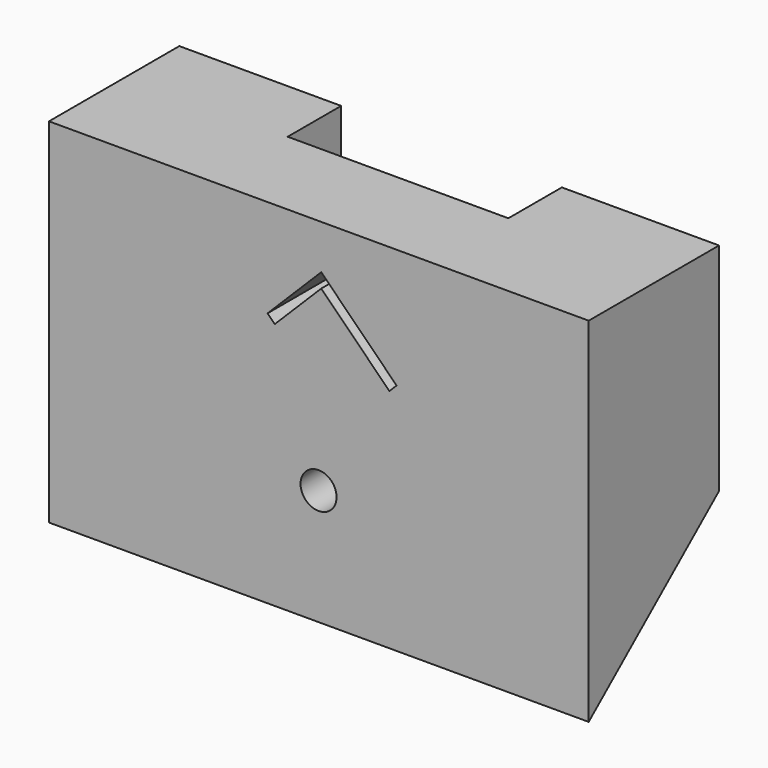
from build123d import *

# Parameters (mm, degrees)
F0_W     = 97.028
F0_H     = 29.2862
F2_DEPTH = 63.5
F1_W     = 39.6748
F1_H     = 12.0142
F3_DEPTH = 63.5
F5_DEPTH = 97.028
F6_R     = 3.2385
F7_DEPTH = 25.4
F9_DEPTH = 25.4


with BuildPart() as f2:
    # F0 (on Top) → F2 (new body)
    with BuildSketch(Plane.XY):
        with Locations((3.356052, -0.137089)):
            Rectangle(F0_W, F0_H)
    extrude(amount=F2_DEPTH)

    # F1 (on face) → F3 (cut)
    with BuildSketch(Plane.XY):
        with Locations((3.775152, 8.498911)):
            Rectangle(F1_W, F1_H)
    extrude(amount=F3_DEPTH, mode=Mode.SUBTRACT)

    # F4 (on face) → F5 (cut)
    with BuildSketch(Plane.YZ.offset(51.870052)):
        Polygon((14.506011, 0), (14.506011, 24.638), (-14.780189, 0), align=None)
    extrude(amount=-F5_DEPTH, mode=Mode.SUBTRACT)

    # F6 (on face) → F7 (cut)
    with BuildSketch(Plane.XZ.offset(14.780189)):
        with Locations((3.305252, 20.828)):
            Circle(F6_R)
    extrude(amount=-F7_DEPTH, mode=Mode.SUBTRACT)

    # F8 (on face) → F9 (cut)
    with BuildSketch(Plane.XZ.offset(14.780189)):
        Polygon((17.332412, 42.000698), (3.790186, 55.542924), (-5.854609, 45.898129), (-4.561452, 44.604972), (3.790186, 52.95661), (16.039255, 40.707541), align=None)
    extrude(amount=-F9_DEPTH, mode=Mode.SUBTRACT)


solid = f2.part
